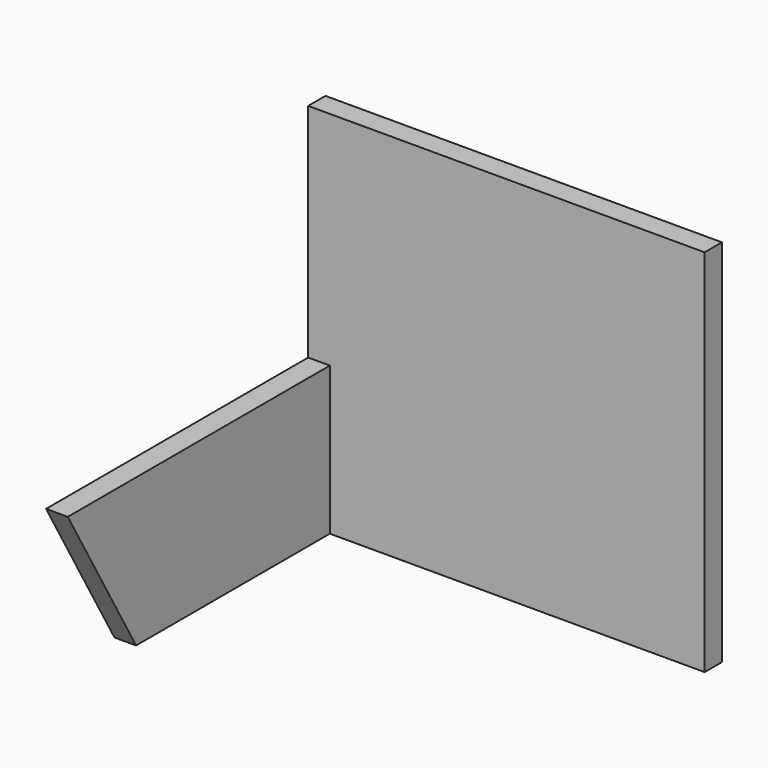
from build123d import *

# Parameters (mm, degrees)
PAD_DEPTH         = 2
SKETCH001_W       = 2
SKETCH001_H       = 34.122
PAD001_DEPTH      = 34.6
PAD001_DEPTH_BACK = 2


with BuildPart() as part:
    # Sketch → Pad (new body)
    with BuildSketch(Plane.YZ):
        Polygon((-23.355, 0), (23.355, 0), (23.355, 13.665881), (-31.245, 13.665881), align=None)
    extrude(amount=PAD_DEPTH)

    # Sketch001 (on Face6 of Pad) → Pad001 (join, two sides)
    with BuildSketch(Plane.YZ.offset(2)) as pad001_sk:
        with Locations((0, 17.061)):
            Rectangle(SKETCH001_W, SKETCH001_H)
    extrude(amount=PAD001_DEPTH)
    extrude(pad001_sk.sketch, amount=-PAD001_DEPTH_BACK)


solid = part.part
